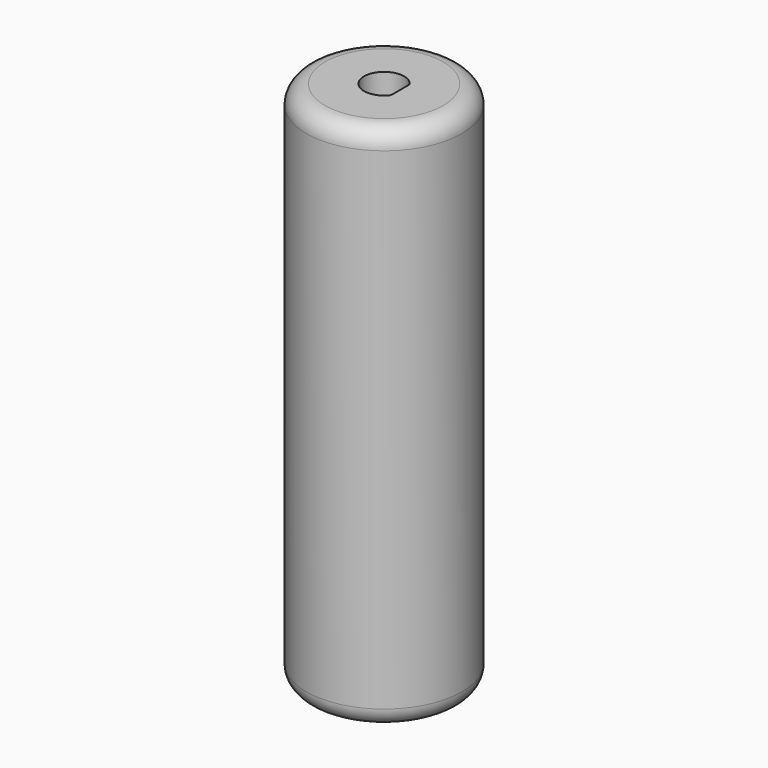
from build123d import *

# Parameters (mm, degrees)
F0_R     = 12.5
F1_DEPTH = 85
F2_DEPTH = 25
F4_DEPTH = 25
F5_R     = 3


with BuildPart() as f1:
    # F0 (on Top) → F1 (new body)
    with BuildSketch(Plane.XY):
        Circle(F0_R)
        with BuildLine():
            ThreePointArc((5.031153, -1.5), (-5.25, 0), (5.031153, 1.5))
            Line((5.031153, 1.5), (8.031153, 1.5))
            Line((8.031153, 1.5), (8.031153, -1.5))
            Line((8.031153, -1.5), (5.031153, -1.5))
        make_face(mode=Mode.SUBTRACT)
        with BuildLine():
            Line((5.031153, -1.5), (5.031153, 1.5))
            ThreePointArc((5.031153, 1.5), (-5.25, 0), (5.031153, -1.5))
        make_face()
        with BuildLine():
            ThreePointArc((5.031153, 1.5), (5.195, 0.75794), (5.25, 0))
            ThreePointArc((5.25, 0), (5.195, -0.75794), (5.031153, -1.5))
            Line((5.031153, -1.5), (8.031153, -1.5))
            Line((8.031153, -1.5), (8.031153, 1.5))
            Line((8.031153, 1.5), (5.031153, 1.5))
        make_face()
        with BuildLine():
            ThreePointArc((5.031153, -1.5), (5.195, -0.75794), (5.25, 0))
            ThreePointArc((5.25, 0), (5.195, 0.75794), (5.031153, 1.5))
            Line((5.031153, 1.5), (5.031153, -1.5))
        make_face()
    extrude(amount=F1_DEPTH)

    # F0 (on Top) → F2 (cut)
    with BuildSketch(Plane.XY):
        with BuildLine():
            Line((5.031153, -1.5), (5.031153, 1.5))
            ThreePointArc((5.031153, 1.5), (-5.25, 0), (5.031153, -1.5))
        make_face()
        with BuildLine():
            ThreePointArc((5.031153, -1.5), (5.195, -0.75794), (5.25, 0))
            ThreePointArc((5.25, 0), (5.195, 0.75794), (5.031153, 1.5))
            Line((5.031153, 1.5), (5.031153, -1.5))
        make_face()
        with BuildLine():
            ThreePointArc((5.031153, 1.5), (5.195, 0.75794), (5.25, 0))
            ThreePointArc((5.25, 0), (5.195, -0.75794), (5.031153, -1.5))
            Line((5.031153, -1.5), (8.031153, -1.5))
            Line((8.031153, -1.5), (8.031153, 1.5))
            Line((8.031153, 1.5), (5.031153, 1.5))
        make_face()
    extrude(amount=F2_DEPTH, mode=Mode.SUBTRACT)

    # F3 (on face) → F4 (cut)
    with BuildSketch(Plane.XY.offset(85)):
        with BuildLine():
            Line((2.625, -1.873499), (2.625, 1.873499))
            ThreePointArc((2.625, 1.873499), (-3.225, 0), (2.625, -1.873499))
        make_face()
    extrude(amount=-F4_DEPTH, mode=Mode.SUBTRACT)

    # F5
    f5_edges = [f1.edges().sort_by_distance(p)[0] for p in [
        (-12.5, 0, 85),
        (-12.5, 0, 0),
    ]]
    fillet(f5_edges, radius=F5_R)


solid = f1.part
